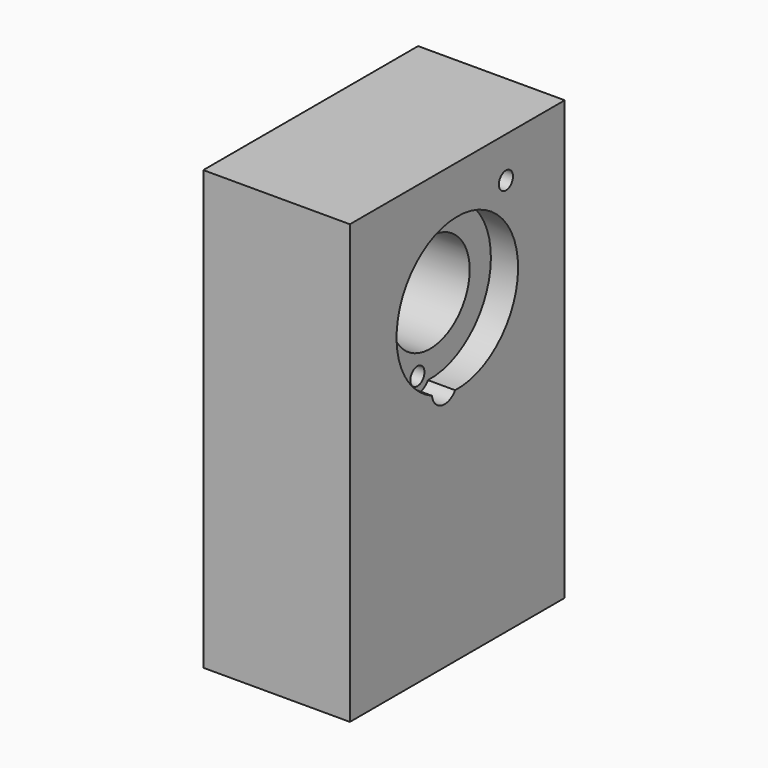
from build123d import *

# Parameters (mm, degrees)
F0_W     = 38
F0_H     = 62
F1_DEPTH = 20.75
F2_R     = 1.25
F2_R_2   = 7
F3_DEPTH = 3.85
F4_DEPTH = 7.8
F5_DEPTH = 20.751
F6_R     = 11
F6_R_2   = 7
F7_DEPTH = 1
F8_R     = 1.75
F9_DEPTH = 4


with BuildPart() as f1:
    # F0 (on Right) → F1 (new body)
    with BuildSketch(Plane.YZ):
        Rectangle(F0_W, F0_H)
    extrude(amount=F1_DEPTH)

    # F2 (on face) → F3 (cut)
    with BuildSketch(Plane.YZ.offset(20.75)):
        with BuildLine():
            ThreePointArc((-4.48197, 3.728898), (-2.769231, 1.823898), (-0.383414, 2.75684))
            ThreePointArc((-0.383414, 2.75684), (2.480769, 23.959841), (-4.48197, 3.728898))
        make_face()
        with Locations((-2.25, 4.013167)):
            Circle(F2_R, mode=Mode.SUBTRACT)
        with Locations((0, 13.5)):
            Circle(F2_R_2, mode=Mode.SUBTRACT)
    extrude(amount=-F3_DEPTH, mode=Mode.SUBTRACT)

    # F2 (on face) → F4 (cut)
    with BuildSketch(Plane.YZ.offset(20.75)):
        with Locations((-2.25, 4.013167)):
            Circle(F2_R)
        with Locations((8.600429, 25.240833)):
            Circle(F2_R)
    extrude(amount=-F4_DEPTH, mode=Mode.SUBTRACT)

    # F2 (on face) → F5 (cut, through all)
    with BuildSketch(Plane.YZ.offset(20.75)):
        with Locations((0, 13.5)):
            Circle(F2_R_2)
    extrude(amount=-F5_DEPTH, mode=Mode.SUBTRACT)

    # F6 (on face) → F7 (cut)
    with BuildSketch(Plane(origin=(0, 0, 0), x_dir=(0, -1, 0), z_dir=(-1, 0, 0))):
        with Locations((0, 13.5)):
            Circle(F6_R)
        with Locations((0, 13.5)):
            Circle(F6_R_2, mode=Mode.SUBTRACT)
    extrude(amount=-F7_DEPTH, mode=Mode.SUBTRACT)

    # F8 (on face) → F9 (cut)
    with BuildSketch(Plane(origin=(0, 19, 0), x_dir=(-1, 0, 0), z_dir=(0, 1, 0))):
        with Locations((-4.25, 23.25)):
            Circle(F8_R)
        with Locations((-4.25, -14.25)):
            Circle(F8_R)
    extrude(amount=-F9_DEPTH, mode=Mode.SUBTRACT)


solid = f1.part
